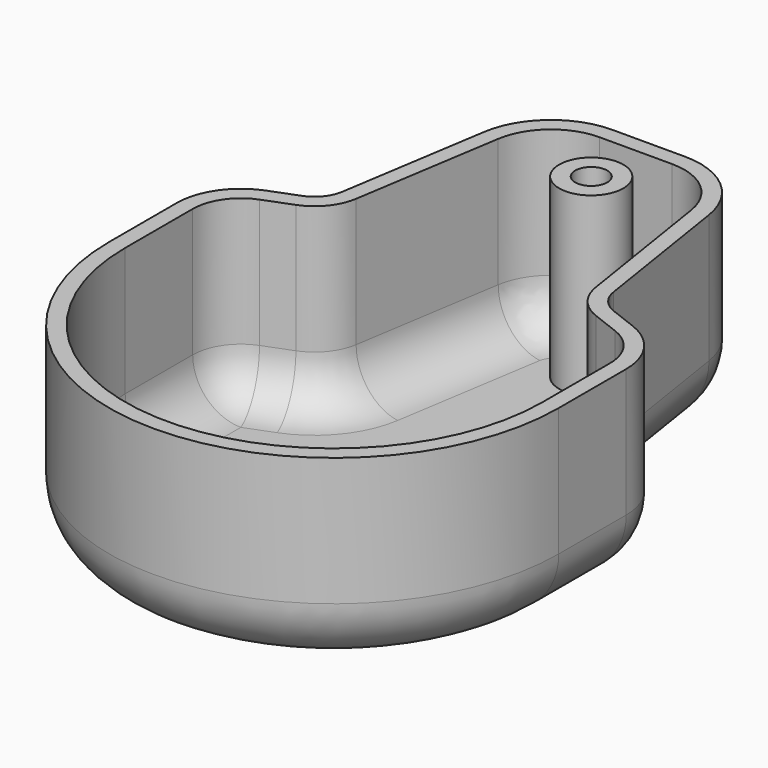
from build123d import *

# Parameters (mm, degrees)
F1_DEPTH = 30
F2_R     = 10
F3_R     = 5
F4_R     = 12
F5_R     = 10
F7_D     = 5
F8_T     = -2.5


with BuildPart() as f1:
    # F0 (on Top) → F1 (new body)
    with BuildSketch(Plane.XY):
        with BuildLine():
            Line((15.899289, 61.283179), (-15.899289, 61.283179))
            Line((-15.899289, 61.283179), (-21.571181, 25.174486))
            Line((-21.571181, 25.174486), (-35, 20))
            Line((-35, 20), (-35, 0))
            ThreePointArc((-35, 0), (0, -35), (35, 0))
            Line((35, 0), (35, 20))
            Line((35, 20), (21.571181, 25.174486))
            Line((21.571181, 25.174486), (15.899289, 61.283179))
        make_face()
    extrude(amount=F1_DEPTH)

    # F2
    f2_edges = [f1.edges().sort_by_distance(p)[0] for p in [
        (35, 20, 15),
        (-35, 20, 15),
    ]]
    fillet(f2_edges, radius=F2_R)

    # F3
    f3_edges = [f1.edges().sort_by_distance(p)[0] for p in [
        (21.571181, 25.174486, 15),
        (-21.571181, 25.174486, 15),
    ]]
    fillet(f3_edges, radius=F3_R)

    # F4
    f4_edges = [f1.edges().sort_by_distance(p)[0] for p in [
        (15.899289, 61.283179, 15),
        (-15.899289, 61.283179, 15),
    ]]
    fillet(f4_edges, radius=F4_R)

    # F5
    f5_edges = [f1.edges().sort_by_distance(p)[0] for p in [
        (19.30748, 39.585778, 0),
    ]]
    fillet(f5_edges, radius=F5_R)

    # F7 (through all)
    with Locations(Plane.XY.offset(30)):
        with Locations((0, 50.086495)):
            Hole(F7_D / 2)

    # F8
    f8_openings = [f1.faces().sort_by_distance(p)[0] for p in [
        (0, 9.29282, 30),
    ]]
    offset(amount=F8_T, openings=f8_openings)


solid = f1.part
